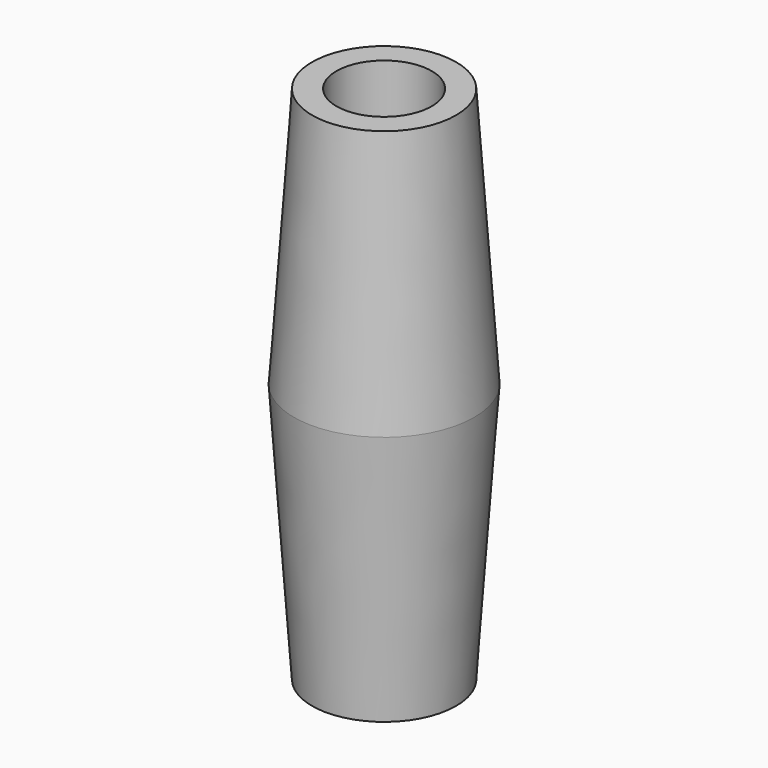
from build123d import *

# Parameters (mm, degrees)
F0_R     = 4.155
F1_DEPTH = 15
F1_TAPER = -4
F4_D     = 5.5


with BuildPart() as f1:
    # F0 (on Top) → F1 (new body)
    with BuildSketch(Plane.XY):
        Circle(F0_R)
    extrude(amount=F1_DEPTH, taper=F1_TAPER)

    # F2: F1 across face


with BuildPart() as f1_1:
    add(f1.part)
    add(f1.part.mirror(Plane.XY.offset(15)))

    # F4 (through all)
    with Locations(Plane.XY.offset(30)):
        with Locations((0, 0)):
            Hole(F4_D / 2)


solid = f1_1.part
